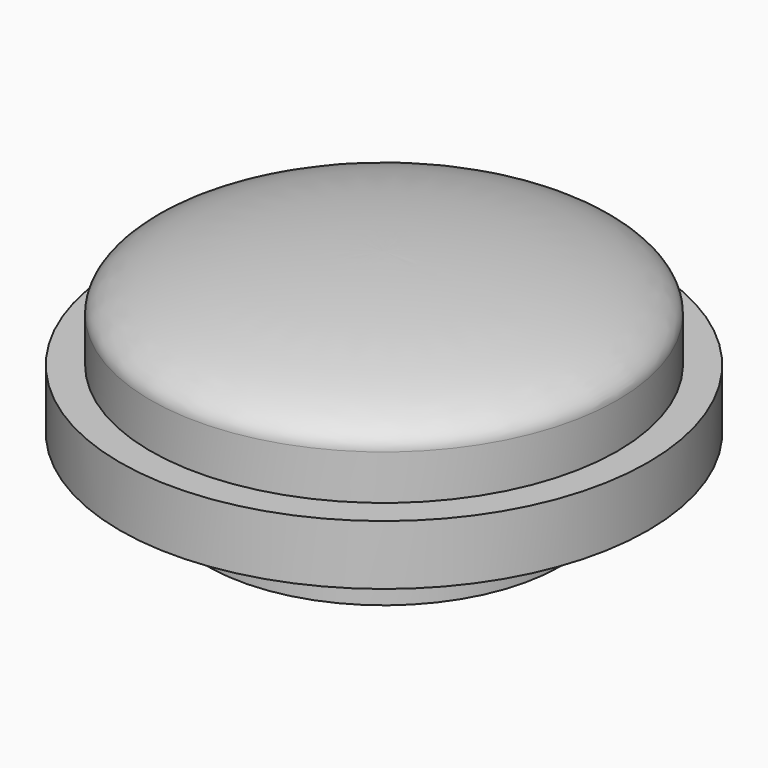
from build123d import *

# Parameters (mm, degrees)
F3_DEPTH = 8


with BuildPart() as f1:
    # F0 (on Front) → F1 (revolve)
    with BuildSketch(Plane.XZ):
        with BuildLine():
            ThreePointArc((17.75, -3), (18.6286796564, -0.8786796564), (20.75, 0))
            Line((20.75, 0), (26.5, 0))
            Line((26.5, 0), (26.5, 6))
            Line((26.5, 6), (23.425, 6))
            Line((23.425, 6), (23.425, 10.5))
            add(Edge.make_bspline(
                [(23.425, 10.5), (23.425, 16), (0, 16)],
                knots=[3.1415926536, 3.1415926536, 3.1415926536, 4.7123889804, 4.7123889804, 4.7123889804], degree=2, weights=[1, 0.7071067812, 1]))
            Line((0, 16), (0, 13))
            add(Edge.make_bspline(
                [(20.425, 10.1929514026), (20.425, 13), (0, 13)],
                knots=[0, 0, 0, 1.5707963268, 1.5707963268, 1.5707963268], degree=2, weights=[1, 0.7071067812, 1]))
            Line((20.425, 10.1929514026), (20.425, 5))
            Line((20.425, 5), (0, 5))
            Line((0, 5), (0, 2))
            Line((0, 2), (13.75, 2))
            ThreePointArc((13.75, 2), (14.4571067812, 1.7071067812), (14.75, 1))
            Line((14.75, 1), (14.75, -6))
            Line((14.75, -6), (17.75, -6))
            Line((17.75, -6), (17.75, -3))
        make_face()
    revolve(axis=Axis((0, 0, 3), (0, 0, 1)))

    # F2 (on face) → F3 (join, through all)
    with BuildSketch(Plane(origin=(0, 0, 2), x_dir=(1, 0, 0), z_dir=(0, 0, -1))):
        Polygon((2.8637252952, 3.9852742399), (-2.0194860852, 4.472695975), (-4.8832113804, 0.4874217352), (-2.8637252952, -3.9852742399), (2.0194860852, -4.472695975), (4.8832113804, -0.4874217352), align=None)
        Polygon((-1.5443128887, 3.4202969221), (2.1899075787, 3.047562654), (3.7342204673, -0.3727342681), (1.5443128887, -3.4202969221), (-2.1899075787, -3.047562654), (-3.7342204673, 0.3727342681), align=None, mode=Mode.SUBTRACT)
    extrude(amount=F3_DEPTH)


solid = f1.part
